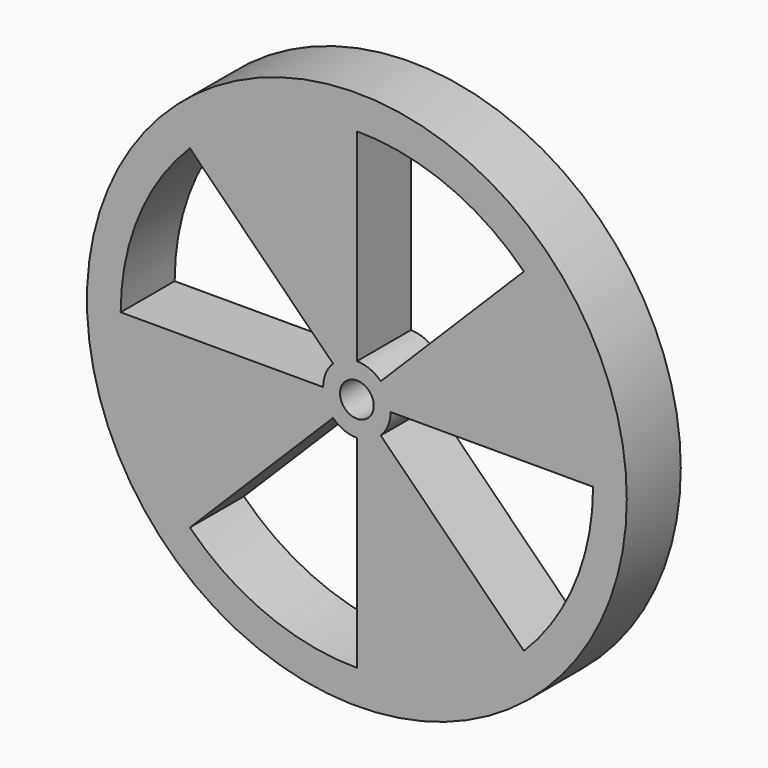
from build123d import *

# Parameters (mm, degrees)
F0_R     = 25.4
F0_R_2   = 1.5875
F1_DEPTH = 6.35


with BuildPart() as f1:
    # F0 (on Front) → F1 (new body)
    with BuildSketch(Plane.XZ):
        Circle(F0_R)
        with BuildLine():
            ThreePointArc((15.7154482119, 15.7154482119), (20.5332226101, 8.5051392843), (22.225, 0))
            ThreePointArc((22.225, 0), (20.5332226101, -8.5051392843), (15.7154482119, -15.7154482119))
            ThreePointArc((15.7154482119, -15.7154482119), (8.5051392843, -20.5332226101), (0, -22.225))
            ThreePointArc((0, -22.225), (-8.5051392843, -20.5332226101), (-15.7154482119, -15.7154482119))
            ThreePointArc((-15.7154482119, -15.7154482119), (-20.5332226101, -8.5051392843), (-22.225, 0))
            ThreePointArc((-22.225, 0), (-20.5332226101, 8.5051392843), (-15.7154482119, 15.7154482119))
            ThreePointArc((-15.7154482119, 15.7154482119), (-8.5051392843, 20.5332226101), (0, 22.225))
            ThreePointArc((0, 22.225), (8.5051392843, 20.5332226101), (15.7154482119, 15.7154482119))
        make_face(mode=Mode.SUBTRACT)
        with BuildLine():
            ThreePointArc((-2.2450640303, 2.2450640303), (-1.2150198978, 2.9333175157), (0, 3.175))
            Line((0, 3.175), (0, 22.225))
            ThreePointArc((0, 22.225), (-8.5051392843, 20.5332226101), (-15.7154482119, 15.7154482119))
            Line((-15.7154482119, 15.7154482119), (-2.2450640303, 2.2450640303))
        make_face()
        with BuildLine():
            ThreePointArc((2.2450640303, 2.2450640303), (2.9333175157, 1.2150198978), (3.175, 0))
            Line((3.175, 0), (22.225, 0))
            ThreePointArc((22.225, 0), (20.5332226101, 8.5051392843), (15.7154482119, 15.7154482119))
            Line((15.7154482119, 15.7154482119), (2.2450640303, 2.2450640303))
        make_face()
        with BuildLine():
            Line((15.7154482119, -15.7154482119), (2.2450640303, -2.2450640303))
            ThreePointArc((2.2450640303, -2.2450640303), (1.2150198978, -2.9333175157), (0, -3.175))
            Line((0, -3.175), (0, -22.225))
            ThreePointArc((0, -22.225), (8.5051392843, -20.5332226101), (15.7154482119, -15.7154482119))
        make_face()
        with BuildLine():
            Line((-15.7154482119, -15.7154482119), (-2.2450640303, -2.2450640303))
            ThreePointArc((-2.2450640303, -2.2450640303), (-2.9333175157, -1.2150198978), (-3.175, 0))
            Line((-3.175, 0), (-22.225, 0))
            ThreePointArc((-22.225, 0), (-20.5332226101, -8.5051392843), (-15.7154482119, -15.7154482119))
        make_face()
        with BuildLine():
            ThreePointArc((2.2450640303, -2.2450640303), (2.9333175157, -1.2150198978), (3.175, 0))
            ThreePointArc((3.175, 0), (2.9333175157, 1.2150198978), (2.2450640303, 2.2450640303))
            ThreePointArc((2.2450640303, 2.2450640303), (1.2150198978, 2.9333175157), (0, 3.175))
            ThreePointArc((0, 3.175), (-1.2150198978, 2.9333175157), (-2.2450640303, 2.2450640303))
            ThreePointArc((-2.2450640303, 2.2450640303), (-2.9333175157, 1.2150198978), (-3.175, 0))
            ThreePointArc((-3.175, 0), (-2.9333175157, -1.2150198978), (-2.2450640303, -2.2450640303))
            ThreePointArc((-2.2450640303, -2.2450640303), (-1.2150198978, -2.9333175157), (0, -3.175))
            ThreePointArc((0, -3.175), (1.2150198978, -2.9333175157), (2.2450640303, -2.2450640303))
        make_face()
        Circle(F0_R_2, mode=Mode.SUBTRACT)
    extrude(amount=F1_DEPTH)


solid = f1.part
